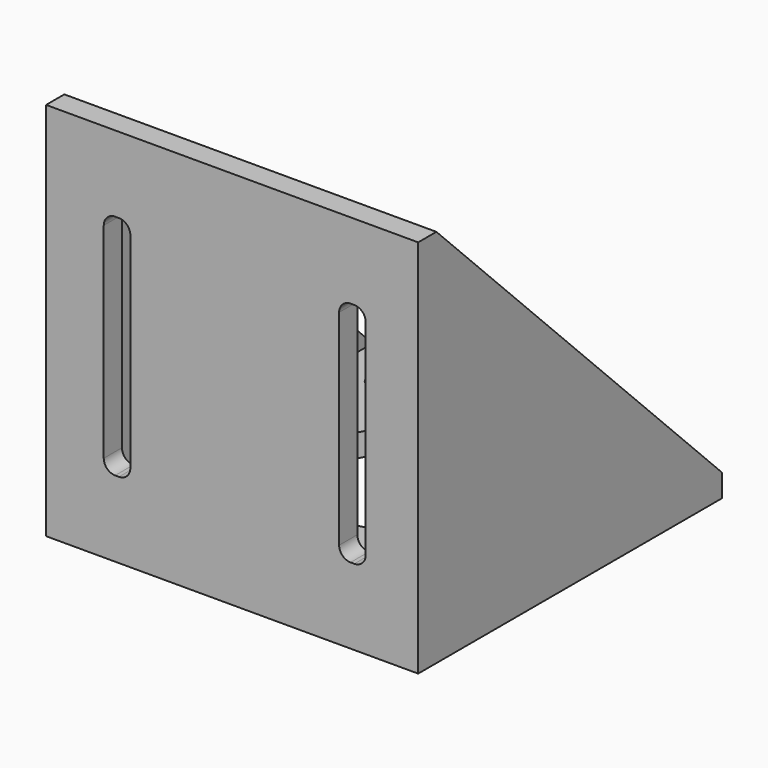
from build123d import *

# Parameters (mm, degrees)
F0_W          = 17
F0_H          = 4
F1_DEPTH      = 50
F0_R          = 1.75
F0_R_2        = 11.5
F0_W_2        = 13
F2_DEPTH      = 3
F4_DEPTH      = 5
F4_DEPTH_BACK = 50
F6_DEPTH      = 3


with BuildPart() as f1:
    # F0 (on Top) → F1 (new body)
    with BuildSketch(Plane.XY):
        Polygon((-21.5, -21.5), (-21.5, 21.5), (-24.5, 21.5), (-24.5, -25.5), (-21.5, -25.5), align=None)
        Polygon((24.5, -25.5), (21.5, -25.5), (8.5, -25.5), (-8.5, -25.5), (-21.5, -25.5), (-24.5, -25.5), (-24.5, -28.5), (24.5, -28.5), align=None)
        Polygon((24.5, 21.5), (21.5, 21.5), (21.5, -21.5), (21.5, -25.5), (24.5, -25.5), align=None)
        with Locations((0, -23.5)):
            Rectangle(F0_W, F0_H)
    extrude(amount=F1_DEPTH)

    # F0 (on Top) → F2 (join)
    with BuildSketch(Plane.XY):
        Polygon((21.5, -21.5), (21.5, 21.5), (-21.5, 21.5), (-21.5, -21.5), (-8.5, -21.5), (8.5, -21.5), align=None)
        with Locations((-15.5, -15.5)):
            Circle(F0_R, mode=Mode.SUBTRACT)
        with Locations((15.5, -15.5)):
            Circle(F0_R, mode=Mode.SUBTRACT)
        Circle(F0_R_2, mode=Mode.SUBTRACT)
        with Locations((-15.5, 15.5)):
            Circle(F0_R, mode=Mode.SUBTRACT)
        with Locations((15.5, 15.5)):
            Circle(F0_R, mode=Mode.SUBTRACT)
        with Locations((15, -23.5)):
            Rectangle(F0_W_2, F0_H)
        with Locations((-15, -23.5)):
            Rectangle(F0_W_2, F0_H)
    extrude(amount=F2_DEPTH)

    # F3 (on face) → F4 (cut, two sides)
    with BuildSketch(Plane(origin=(21.5, 0, 0), x_dir=(0, -1, 0), z_dir=(-1, 0, 0))) as f4_sk:
        Polygon((-21.5, 3), (25.5, 50), (-21.5, 50), align=None)
    extrude(amount=-F4_DEPTH, mode=Mode.SUBTRACT)
    extrude(f4_sk.sketch, amount=F4_DEPTH_BACK, mode=Mode.SUBTRACT)

    # F5 (on face) → F6 (cut)
    with BuildSketch(Plane.XZ.offset(28.5)):
        with BuildLine():
            ThreePointArc((17.5943711698, 38.5), (17.1550313416, 39.5606601718), (16.0943711698, 40))
            Line((16.0943711698, 40), (15.5943711698, 40))
            ThreePointArc((15.5943711698, 40), (14.533710998, 39.5606601718), (14.0943711698, 38.5))
            Line((14.0943711698, 38.5), (14.0943711698, 11.5))
            ThreePointArc((14.0943711698, 11.5), (14.533710998, 10.4393398282), (15.5943711698, 10))
            Line((15.5943711698, 10), (16.0943711698, 10))
            ThreePointArc((16.0943711698, 10), (17.1550313416, 10.4393398282), (17.5943711698, 11.5))
            Line((17.5943711698, 11.5), (17.5943711698, 38.5))
        make_face()
        with BuildLine():
            Line((-13.4056288302, 11.5), (-13.4056288302, 38.5))
            ThreePointArc((-13.4056288302, 38.5), (-13.8449686584, 39.5606601718), (-14.9056288302, 40))
            Line((-14.9056288302, 40), (-15.4056288302, 40))
            ThreePointArc((-15.4056288302, 40), (-16.466289002, 39.5606601718), (-16.9056288302, 38.5))
            Line((-16.9056288302, 38.5), (-16.9056288302, 11.5))
            ThreePointArc((-16.9056288302, 11.5), (-16.466289002, 10.4393398282), (-15.4056288302, 10))
            Line((-15.4056288302, 10), (-14.9056288302, 10))
            ThreePointArc((-14.9056288302, 10), (-13.8449686584, 10.4393398282), (-13.4056288302, 11.5))
        make_face()
    extrude(amount=-F6_DEPTH, mode=Mode.SUBTRACT)


with BuildPart() as f7_1:
    # F7: copy of F1
    add(f1.part)


with BuildPart() as f9_1:
    # F9: copy of F1
    add(f1.part)


solid = f1.part
